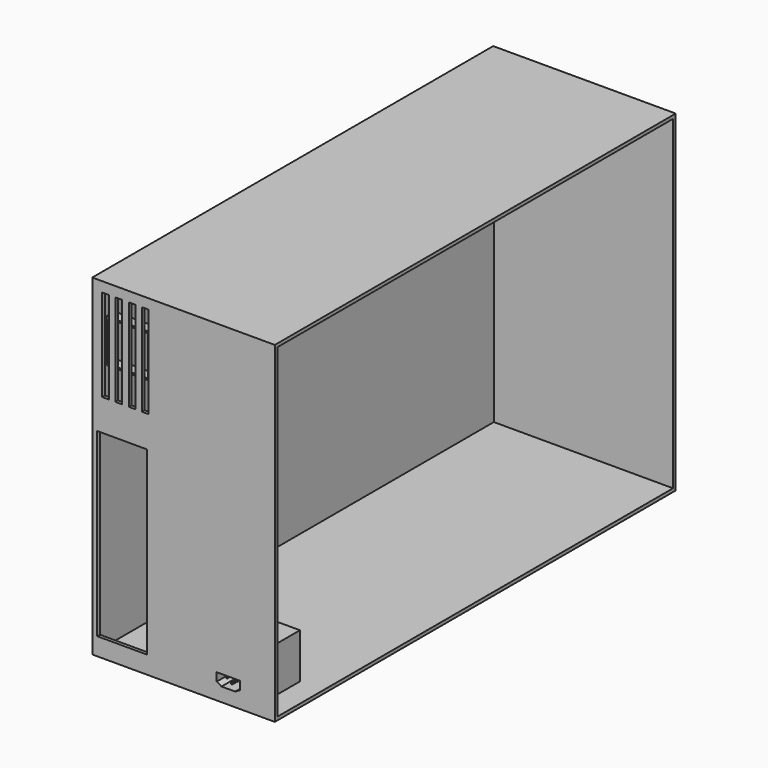
from build123d import *

# Parameters (mm, degrees)
F0_W      = 139.7
F0_H      = 381
F1_DEPTH  = 2.54
F2_W      = 139.7
F2_H      = 254
F3_DEPTH  = 2.54
F4_W      = 381
F4_H      = 254
F5_DEPTH  = 2.54
F7_W      = 139.7
F7_H      = 254
F8_DEPTH  = 2.54
F10_W     = 139.7
F10_H     = 381
F11_DEPTH = 2.54
F12_W     = 5.08
F12_H     = 70.451392
F13_DEPTH = 2.54
F14_W     = 33.02
F14_H     = 33.02
F15_DEPTH = 7.62
F18_DEPTH = 2.54
F19_R     = 3.175
F20_DEPTH = 0.254
F22_DEPTH = 2.54
F24_DEPTH = 3.048
F25_W     = 38.1
F25_H     = 138.263544
F26_DEPTH = 2.54
F27_W     = 36.467261
F27_H     = 34.500528
F28_DEPTH = 43.942
F30_DEPTH = 12.954
F31_W     = 0.868231
F31_H     = 1.430023
F31_W_2   = 0.817157
F31_H_2   = 1.021446
F31_W_3   = 0.817158
F32_DEPTH = 12.446


with BuildPart() as f1:
    # F0 (on Top) → F1 (new body)
    with BuildSketch(Plane.XY):
        with Locations((69.85, 190.5)):
            Rectangle(F0_W, F0_H)
    extrude(amount=F1_DEPTH)

    # F2 (on Front) → F3 (join)
    with BuildSketch(Plane.XZ):
        with Locations((69.85, 127)):
            Rectangle(F2_W, F2_H)
    extrude(amount=F3_DEPTH)

    # F4 (on Right) → F5 (join)
    with BuildSketch(Plane.YZ):
        with Locations((190.5, 127)):
            Rectangle(F4_W, F4_H)
    extrude(amount=F5_DEPTH)

    # F7 (on offset) → F8 (join)
    with BuildSketch(Plane.XZ.offset(-381)):
        with Locations((69.85, 127)):
            Rectangle(F7_W, F7_H)
    extrude(amount=F8_DEPTH)

    # F10 (on offset) → F11 (join)
    with BuildSketch(Plane.XY.offset(254)):
        with Locations((69.85, 190.5)):
            Rectangle(F10_W, F10_H)
    extrude(amount=-F11_DEPTH)

    # F12 (on face) → F13 (cut)
    with BuildSketch(Plane.XZ.offset(2.54)):
        with Locations((40.64, 211.154304)):
            Rectangle(F12_W, F12_H)
        with Locations((30.48, 211.154304)):
            Rectangle(F12_W, F12_H)
        with Locations((20.32, 211.154304)):
            Rectangle(F12_W, F12_H)
        with Locations((10.16, 211.154304)):
            Rectangle(F12_W, F12_H)
    extrude(amount=-F13_DEPTH, mode=Mode.SUBTRACT)

    # F14 (on Front) → F15 (join)
    with BuildSketch(Plane.XZ):
        with Locations((25.453158, 213.36)):
            Rectangle(F14_W, F14_H)
        Polygon((10.213158, 228.6), (40.687077, 228.6), (40.687077, 198.12), (25.453158, 198.12), (10.213158, 198.12), align=None, mode=Mode.SUBTRACT)
    extrude(amount=-F15_DEPTH)

    # F17 (on offset) → F18 (cut)
    with BuildSketch(Plane.YZ.offset(139.7)):
        with BuildLine():
            Line((181.61, 234.763073), (181.61, 247.482779))
            ThreePointArc((181.61, 247.482779), (102.647567, 212.312433), (67.477221, 133.35))
            Line((67.477221, 133.35), (80.196927, 133.35))
            ThreePointArc((80.196927, 133.35), (111.627823, 203.332177), (181.61, 234.763073))
        make_face()
        with BuildLine():
            Line((181.61, 209.305407), (181.61, 222.038098))
            ThreePointArc((181.61, 222.038098), (120.608079, 194.351921), (92.921902, 133.35))
            Line((92.921902, 133.35), (105.654593, 133.35))
            ThreePointArc((105.654593, 133.35), (129.588335, 185.371665), (181.61, 209.305407))
        make_face()
        with BuildLine():
            Line((181.61, 183.796127), (181.61, 196.560765))
            ThreePointArc((181.61, 196.560765), (138.568591, 176.391409), (118.399235, 133.35))
            Line((118.399235, 133.35), (131.163873, 133.35))
            ThreePointArc((131.163873, 133.35), (147.548847, 167.411153), (181.61, 183.796127))
        make_face()
        with BuildLine():
            Line((181.61, 158.10852), (181.61, 170.994091))
            ThreePointArc((181.61, 170.994091), (156.529104, 158.430896), (143.965909, 133.35))
            Line((143.965909, 133.35), (156.85148, 133.35))
            ThreePointArc((156.85148, 133.35), (165.50936, 149.45064), (181.61, 158.10852))
        make_face()
        with BuildLine():
            Line((181.61, 133.35), (181.61, 144.960512))
            ThreePointArc((181.61, 144.960512), (174.489616, 140.470384), (169.999488, 133.35))
            Line((169.999488, 133.35), (181.61, 133.35))
        make_face()
        with BuildLine():
            Line((194.31, 133.35), (205.920512, 133.35))
            ThreePointArc((205.920512, 133.35), (201.430384, 140.470384), (194.31, 144.960512))
            Line((194.31, 144.960512), (194.31, 133.35))
        make_face()
        with BuildLine():
            Line((219.06852, 133.35), (231.954091, 133.35))
            ThreePointArc((231.954091, 133.35), (219.390896, 158.430896), (194.31, 170.994091))
            Line((194.31, 170.994091), (194.31, 158.10852))
            ThreePointArc((194.31, 158.10852), (210.41064, 149.45064), (219.06852, 133.35))
        make_face()
        with BuildLine():
            Line((244.756127, 133.35), (257.520765, 133.35))
            ThreePointArc((257.520765, 133.35), (237.351409, 176.391409), (194.31, 196.560765))
            Line((194.31, 196.560765), (194.31, 183.796127))
            ThreePointArc((194.31, 183.796127), (228.371153, 167.411153), (244.756127, 133.35))
        make_face()
        with BuildLine():
            Line((270.265407, 133.35), (282.998098, 133.35))
            ThreePointArc((282.998098, 133.35), (255.311921, 194.351921), (194.31, 222.038098))
            Line((194.31, 222.038098), (194.31, 209.305407))
            ThreePointArc((194.31, 209.305407), (246.331665, 185.371665), (270.265407, 133.35))
        make_face()
        with BuildLine():
            Line((295.723073, 133.35), (308.442779, 133.35))
            ThreePointArc((308.442779, 133.35), (273.272433, 212.312433), (194.31, 247.482779))
            Line((194.31, 247.482779), (194.31, 234.763073))
            ThreePointArc((194.31, 234.763073), (264.292177, 203.332177), (295.723073, 133.35))
        make_face()
        with BuildLine():
            ThreePointArc((194.31, 6.517221), (273.272433, 41.687567), (308.442779, 120.65))
            Line((308.442779, 120.65), (295.723073, 120.65))
            ThreePointArc((295.723073, 120.65), (264.292177, 50.667823), (194.31, 19.236927))
            Line((194.31, 19.236927), (194.31, 6.517221))
        make_face()
        with BuildLine():
            ThreePointArc((194.31, 31.961902), (255.311921, 59.648079), (282.998098, 120.65))
            Line((282.998098, 120.65), (270.265407, 120.65))
            ThreePointArc((270.265407, 120.65), (246.331665, 68.628335), (194.31, 44.694593))
            Line((194.31, 44.694593), (194.31, 31.961902))
        make_face()
        with BuildLine():
            ThreePointArc((194.31, 57.439235), (237.351409, 77.608591), (257.520765, 120.65))
            Line((257.520765, 120.65), (244.756127, 120.65))
            ThreePointArc((244.756127, 120.65), (228.371153, 86.588847), (194.31, 70.203873))
            Line((194.31, 70.203873), (194.31, 57.439235))
        make_face()
        with BuildLine():
            ThreePointArc((194.31, 83.005909), (219.390896, 95.569104), (231.954091, 120.65))
            Line((231.954091, 120.65), (219.06852, 120.65))
            ThreePointArc((219.06852, 120.65), (210.41064, 104.54936), (194.31, 95.89148))
            Line((194.31, 95.89148), (194.31, 83.005909))
        make_face()
        with BuildLine():
            ThreePointArc((194.31, 109.039488), (201.430384, 113.529616), (205.920512, 120.65))
            Line((205.920512, 120.65), (194.31, 120.65))
            Line((194.31, 120.65), (194.31, 109.039488))
        make_face()
        with BuildLine():
            ThreePointArc((67.477221, 120.65), (102.647567, 41.687567), (181.61, 6.517221))
            Line((181.61, 6.517221), (181.61, 19.236927))
            ThreePointArc((181.61, 19.236927), (111.627823, 50.667823), (80.196927, 120.65))
            Line((80.196927, 120.65), (67.477221, 120.65))
        make_face()
        with BuildLine():
            ThreePointArc((92.921902, 120.65), (120.608079, 59.648079), (181.61, 31.961902))
            Line((181.61, 31.961902), (181.61, 44.694593))
            ThreePointArc((181.61, 44.694593), (129.588335, 68.628335), (105.654593, 120.65))
            Line((105.654593, 120.65), (92.921902, 120.65))
        make_face()
        with BuildLine():
            ThreePointArc((118.399235, 120.65), (138.568591, 77.608591), (181.61, 57.439235))
            Line((181.61, 57.439235), (181.61, 70.203873))
            ThreePointArc((181.61, 70.203873), (147.548847, 86.588847), (131.163873, 120.65))
            Line((131.163873, 120.65), (118.399235, 120.65))
        make_face()
        with BuildLine():
            ThreePointArc((143.965909, 120.65), (156.529104, 95.569104), (181.61, 83.005909))
            Line((181.61, 83.005909), (181.61, 95.89148))
            ThreePointArc((181.61, 95.89148), (165.50936, 104.54936), (156.85148, 120.65))
            Line((156.85148, 120.65), (143.965909, 120.65))
        make_face()
        with BuildLine():
            ThreePointArc((169.999488, 120.65), (174.489616, 113.529616), (181.61, 109.039488))
            Line((181.61, 109.039488), (181.61, 120.65))
            Line((181.61, 120.65), (169.999488, 120.65))
        make_face()
    extrude(amount=-F18_DEPTH, mode=Mode.SUBTRACT)

    # F19 (on face) → F20 (join)
    with BuildSketch(Plane(origin=(0, 381, 0), x_dir=(-1, 0, 0), z_dir=(0, 1, 0))):
        with Locations((-66.46537, 234.394625)):
            Circle(F19_R)
    extrude(amount=F20_DEPTH)

    # F21 (on face) → F22 (cut)
    with BuildSketch(Plane.XZ.offset(2.54)):
        Polygon((95.25, 19.05), (95.25, 12.7), (98.90151, 10.5918), (109.37849, 10.5918), (113.03, 12.7), (113.03, 19.05), align=None)
    extrude(amount=-F22_DEPTH, mode=Mode.SUBTRACT)

    # F23 (on face) → F24 (join)
    with BuildSketch(Plane(origin=(0, 0, 0), x_dir=(1, 0, 0), z_dir=(0, 0, -1))):
        with BuildLine():
            ThreePointArc((22.86, -365.76), (9.851846, -360.371846), (15.24, -373.38))
            ThreePointArc((15.24, -373.38), (20.628154, -371.148154), (22.86, -365.76))
        make_face()
        with BuildLine():
            ThreePointArc((132.08, -365.76), (119.071846, -360.371846), (124.46, -373.38))
            ThreePointArc((124.46, -373.38), (129.848154, -371.148154), (132.08, -365.76))
        make_face()
        with BuildLine():
            ThreePointArc((132.08, -12.7), (129.848154, -7.311846), (124.46, -5.08))
            ThreePointArc((124.46, -5.08), (119.071846, -18.088154), (132.08, -12.7))
        make_face()
        with BuildLine():
            ThreePointArc((22.86, -12.7), (20.628154, -7.311846), (15.24, -5.08))
            ThreePointArc((15.24, -5.08), (9.851846, -18.088154), (22.86, -12.7))
        make_face()
    extrude(amount=F24_DEPTH)

    # F25 (on face) → F26 (cut)
    with BuildSketch(Plane.XZ.offset(2.54)):
        with Locations((22.86, 82.675149)):
            Rectangle(F25_W, F25_H)
    extrude(amount=-F26_DEPTH, mode=Mode.SUBTRACT)

    # F27 (on Front) → F28 (join)
    with BuildSketch(Plane.XZ):
        with Locations((103.505354, 19.790264)):
            Rectangle(F27_W, F27_H)
    extrude(amount=-F28_DEPTH)

    # F29 (on face) → F30 (cut)
    with BuildSketch(Plane.XZ):
        Polygon((113.03, 12.7), (113.03, 19.05), (95.25, 19.05), (95.25, 12.7), (98.90151, 10.5918), (109.37849, 10.5918), align=None)
    extrude(amount=-F30_DEPTH, mode=Mode.SUBTRACT)

    # F31 (on face) → F32 (join)
    with BuildSketch(Plane.XZ.offset(-12.954)):
        with Locations((107.827298, 16.047901)):
            Rectangle(F31_W, F31_H)
        with Locations((104.328845, 13.136782)):
            Rectangle(F31_W_2, F31_H_2)
        with Locations((100.447353, 16.047901)):
            Rectangle(F31_W_3, F31_H)
    extrude(amount=F32_DEPTH)


solid = f1.part
